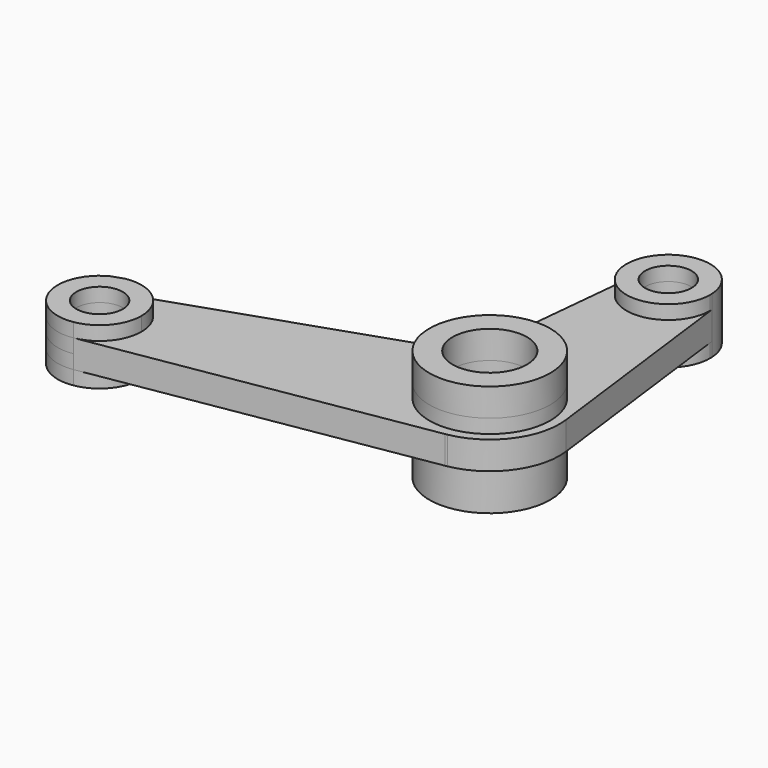
from build123d import *

# Parameters (mm, degrees)
F0_R     = 15.875
F0_R_2   = 41.275
F1_DEPTH = 9.525
F0_R_3   = 25.4
F2_DEPTH = 19.05
F3_DEPTH = 19.05
F4_DEPTH = 19.05


with BuildPart() as f1:
    # F0 (on Top) → F1 (new body, symmetric)
    with BuildSketch(Plane.XY):
        with BuildLine():
            ThreePointArc((-28.4345366302, 155.2297973728), (-1.4166406822, 123.860137475), (28.5749999751, 152.4000000228))
            ThreePointArc((28.5749999751, 152.4000000228), (28.5621057669, 153.2583343061), (28.5234347788, 154.1158939584))
            ThreePointArc((28.5234347788, 154.1158939584), (0.5587225598, 180.9695371922), (-28.4345366302, 155.2297973728))
        make_face()
        with Locations((-2.49e-08, 152.4000000228)):
            Circle(F0_R, mode=Mode.SUBTRACT)
        with BuildLine():
            ThreePointArc((28.5234347788, 154.1158939584), (28.5621057669, 153.2583343061), (28.5749999751, 152.4000000228))
            ThreePointArc((28.5749999751, 152.4000000228), (-1.4166406822, 123.860137475), (-28.4345366302, 155.2297973728))
            Line((-28.4345366302, 155.2297973728), (-38.7298241401, 51.7800823041))
            ThreePointArc((-38.7298241401, 51.7800823041), (-44.114260266, 38.4992634308), (-55.8304596742, 30.2468108398))
            Line((-55.8304596742, 30.2468108398), (-226.9598003085, -27.9227065693))
            ThreePointArc((-226.9598003085, -27.9227065693), (-203.4092582541, -33.9896178831), (-193.0604315885, -55.9972808801))
            ThreePointArc((-193.0604315885, -55.9972808801), (-199.8420995066, -74.4791991184), (-216.9681342495, -84.1885376905))
            Line((-216.9681342495, -84.1885376905), (7.0608757552, -47.0986693928))
            Line((7.0608757552, -47.0986693928), (8.4949702479, -46.8612431065))
            ThreePointArc((8.4949702479, -46.8612431065), (38.4017712026, -28.1681485637), (47.2490373051, 5.9723612369))
            Line((47.2490373051, 5.9723612369), (28.5234347788, 154.1158939584))
        make_face()
        Circle(F0_R_2, mode=Mode.SUBTRACT)
        with BuildLine():
            ThreePointArc((7.0608757552, -47.0986693928), (7.7788288983, -46.9854280173), (8.4949702479, -46.8612431065))
            Line((8.4949702479, -46.8612431065), (7.0608757552, -47.0986693928))
        make_face()
        with BuildLine():
            Line((-234.5231416734, -30.4936036204), (-226.9598003085, -27.9227065693))
            ThreePointArc((-226.9598003085, -27.9227065693), (-230.8317532179, -28.9425531326), (-234.5231416734, -30.4936036204))
        make_face()
        with BuildLine():
            ThreePointArc((-193.0604315885, -55.9972808801), (-203.4092582541, -33.9896178831), (-226.9598003085, -27.9227065693))
            Line((-226.9598003085, -27.9227065693), (-234.5231416734, -30.4936036204))
            ThreePointArc((-234.5231416734, -30.4936036204), (-248.7957018858, -64.8770524072), (-216.9681342495, -84.1885376905))
            ThreePointArc((-216.9681342495, -84.1885376905), (-199.8420995066, -74.4791991184), (-193.0604315885, -55.9972808801))
        make_face()
        with Locations((-221.6354315885, -55.9972808801)):
            Circle(F0_R, mode=Mode.SUBTRACT)
    extrude(amount=F1_DEPTH, both=True)

    # F0 (on Top) → F2 (join, symmetric)
    with BuildSketch(Plane.XY):
        with BuildLine():
            ThreePointArc((-193.0604315885, -55.9972808801), (-203.4092582541, -33.9896178831), (-226.9598003085, -27.9227065693))
            Line((-226.9598003085, -27.9227065693), (-234.5231416734, -30.4936036204))
            ThreePointArc((-234.5231416734, -30.4936036204), (-248.7957018858, -64.8770524072), (-216.9681342495, -84.1885376905))
            ThreePointArc((-216.9681342495, -84.1885376905), (-199.8420995066, -74.4791991184), (-193.0604315885, -55.9972808801))
        make_face()
        with Locations((-221.6354315885, -55.9972808801)):
            Circle(F0_R, mode=Mode.SUBTRACT)
        with BuildLine():
            ThreePointArc((-28.4345366302, 155.2297973728), (-1.4166406822, 123.860137475), (28.5749999751, 152.4000000228))
            ThreePointArc((28.5749999751, 152.4000000228), (28.5621057669, 153.2583343061), (28.5234347788, 154.1158939584))
            ThreePointArc((28.5234347788, 154.1158939584), (0.5587225598, 180.9695371922), (-28.4345366302, 155.2297973728))
        make_face()
        with Locations((-2.49e-08, 152.4000000228)):
            Circle(F0_R, mode=Mode.SUBTRACT)
        Circle(F0_R_2)
        Circle(F0_R_3, mode=Mode.SUBTRACT)
    extrude(amount=F2_DEPTH, both=True)

    # F3 (add): a face of the model
    f3_faces = [f1.faces().sort_by_distance(p)[0] for p in [
        (-40.1075667043, 0, 19.05),
    ]]
    extrude(f3_faces, amount=F3_DEPTH)

    # F4 (add): a face of the model
    f4_faces = [f1.faces().sort_by_distance(p)[0] for p in [
        (-40.1075667043, 0, -19.05),
    ]]
    extrude(f4_faces, amount=F4_DEPTH)


solid = f1.part
